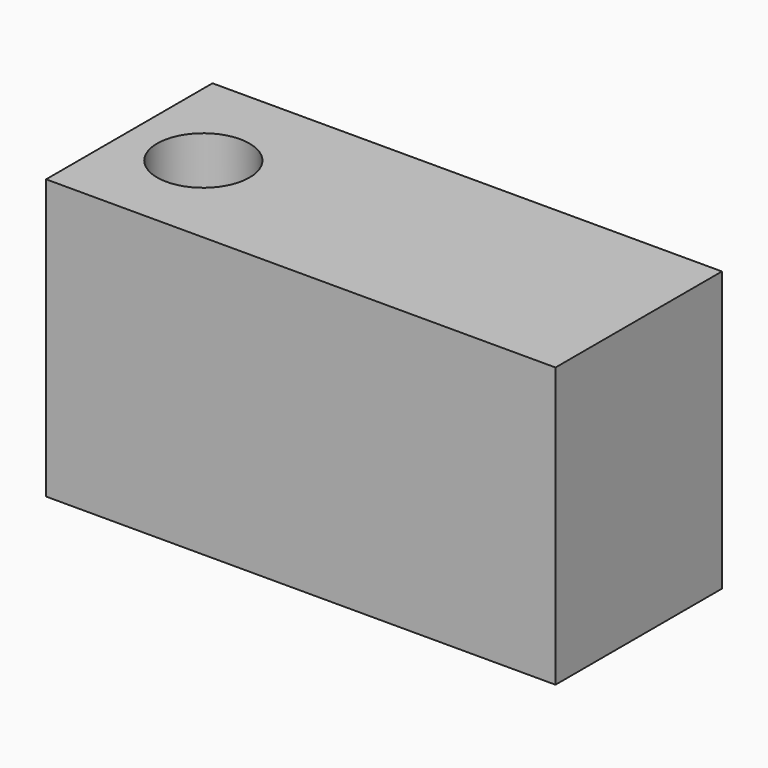
from build123d import *

# Parameters (mm, degrees)
F0_W     = 140.5834183097
F0_H     = 77.0756043494
F1_DEPTH = 57.404
F2_R     = 12.7387633341
F3_DEPTH = 94.488


with BuildPart() as f1:
    # F0 (on Front) → F1 (new body)
    with BuildSketch(Plane.XZ):
        with Locations((-0.1685656607, -3.4199673682)):
            Rectangle(F0_W, F0_H)
    extrude(amount=F1_DEPTH)

    # F2 (on face) → F3 (cut)
    with BuildSketch(Plane.XY.offset(35.1178348064)):
        with Locations((-49.4774878025, -29.3857362121)):
            Circle(F2_R)
    extrude(amount=-F3_DEPTH, mode=Mode.SUBTRACT)


solid = f1.part
